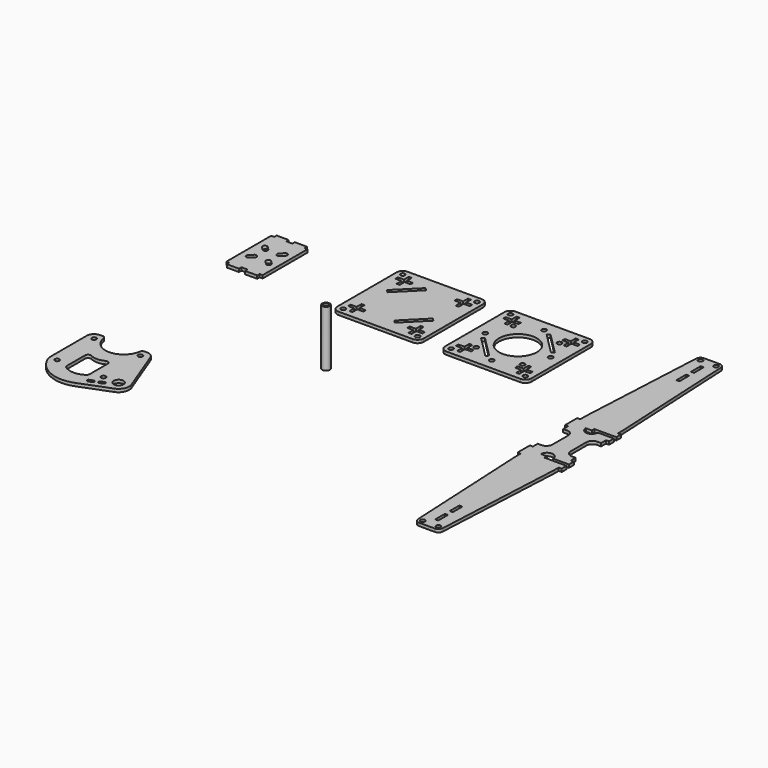
from build123d import *

# Parameters (mm, degrees)
F1_DEPTH = 2
F2_R     = 1.5
F3_DEPTH = 2
F2_R_2   = 12.5
F4_R     = 1.5
F4_W     = 2
F4_H     = 8
F5_DEPTH = 2
F6_R     = 1.5
F6_R_2   = 3.25
F7_DEPTH = 2
F8_R     = 2.5
F8_R_2   = 1.5
F9_DEPTH = 37


with BuildPart() as f1:
    # F0 (on Top) → F1 (new body)
    with BuildSketch(Plane.XY):
        Polygon((-186.8436282873, 149.2313740253), (-188.8436282873, 149.2313740253), (-188.8436282873, 112.2313740253), (-186.8436282873, 112.2313740253), (-186.8436282873, 110.2313740253), (-178.8436282873, 110.2313740253), (-178.8436282873, 112.2313740253), (-174.8436282873, 112.2313740253), (-174.8436282873, 110.2313740253), (-166.8436282873, 110.2313740253), (-166.8436282873, 112.2313740253), (-164.8436282873, 112.2313740253), (-164.8436282873, 149.2313740253), (-166.8436282873, 149.2313740253), (-166.8436282873, 151.2313740253), (-174.8436282873, 151.2313740253), (-174.8436282873, 149.2313740253), (-178.8436282873, 149.2313740253), (-178.8436282873, 151.2313740253), (-186.8436282873, 151.2313740253), align=None)
        with BuildLine():
            Line((-184.6218028801, 125.0745197762), (-182.5005182332, 127.1958044218))
            ThreePointArc((-182.5005182332, 127.1958044218), (-180.3791621716, 127.1958400978), (-180.3791979341, 125.0744840362))
            Line((-180.3791979341, 125.0744840362), (-182.4882756156, 122.9655484857))
            Line((-182.4882756156, 122.9655484857), (-182.5129038957, 122.9409218653))
            ThreePointArc((-182.5129038957, 122.9409218653), (-184.6279597425, 122.9593922427), (-184.6218028801, 125.0745197762))
        make_face(mode=Mode.SUBTRACT)
        with BuildLine():
            ThreePointArc((-171.1743526789, 122.9409218653), (-171.186738297, 122.9531636927), (-171.198980959, 122.9655484857))
            Line((-171.198980959, 122.9655484857), (-173.3080586406, 125.0744840362))
            ThreePointArc((-173.3080586406, 125.0744840362), (-173.308094403, 127.1958400978), (-171.1867383414, 127.1958044218))
            Line((-171.1867383414, 127.1958044218), (-169.0654536946, 125.0745197762))
            ThreePointArc((-169.0654536946, 125.0745197762), (-169.0592968322, 122.9593922427), (-171.1743526789, 122.9409218653))
        make_face(mode=Mode.SUBTRACT)
        with BuildLine():
            ThreePointArc((-180.3791979341, 136.3882640145), (-180.3791621716, 134.2669079529), (-182.5005182332, 134.2669436289))
            Line((-182.5005182332, 134.2669436289), (-184.6218028801, 136.3882282745))
            ThreePointArc((-184.6218028801, 136.3882282745), (-184.6279597425, 138.503355808), (-182.5129038957, 138.5218261853))
            ThreePointArc((-182.5129038957, 138.5218261853), (-182.5005182776, 138.509584358), (-182.4882756156, 138.497199565))
            Line((-182.4882756156, 138.497199565), (-180.3791979341, 136.3882640145))
        make_face(mode=Mode.SUBTRACT)
        with BuildLine():
            Line((-169.0654536946, 136.3882282745), (-171.1867383414, 134.2669436289))
            ThreePointArc((-171.1867383414, 134.2669436289), (-173.308094403, 134.2669079529), (-173.3080586406, 136.3882640145))
            Line((-173.3080586406, 136.3882640145), (-171.198980959, 138.497199565))
            Line((-171.198980959, 138.497199565), (-171.1743526789, 138.5218261854))
            ThreePointArc((-171.1743526789, 138.5218261854), (-169.0592968322, 138.503355808), (-169.0654536946, 136.3882282745))
        make_face(mode=Mode.SUBTRACT)
    extrude(amount=F1_DEPTH)


with BuildPart() as f3:
    # F2 (on Top) → F3 (new body)
    with BuildSketch(Plane.XY):
        with BuildLine():
            Line((-59.8981404901, 161.8164421916), (-108.8981404901, 161.8164421916))
            ThreePointArc((-108.8981404901, 161.8164421916), (-111.7265676148, 160.6448693163), (-112.8981404901, 157.8164421916))
            Line((-112.8981404901, 157.8164421916), (-112.8981404901, 108.8164421916))
            ThreePointArc((-112.8981404901, 108.8164421916), (-111.7265676148, 105.9880150669), (-108.8981404901, 104.8164421916))
            Line((-108.8981404901, 104.8164421916), (-59.8981404901, 104.8164421916))
            ThreePointArc((-59.8981404901, 104.8164421916), (-57.0697133653, 105.9880150669), (-55.8981404901, 108.8164421916))
            Line((-55.8981404901, 108.8164421916), (-55.8981404901, 157.8164421916))
            ThreePointArc((-55.8981404901, 157.8164421916), (-57.0697133653, 160.6448693163), (-59.8981404901, 161.8164421916))
        make_face()
        with Locations((-108.8981404901, 108.8164421916)):
            Circle(F2_R, mode=Mode.SUBTRACT)
        Polygon((-102.8981404901, 112.8164421916), (-102.8981404901, 108.8164421916), (-104.8981404901, 108.8164421916), (-104.8981404901, 112.8164421916), (-108.8981404901, 112.8164421916), (-108.8981404901, 114.8164421916), (-104.8981404901, 114.8164421916), (-104.8981404901, 118.8164421916), (-102.8981404901, 118.8164421916), (-102.8981404901, 114.8164421916), (-98.8981404901, 114.8164421916), (-98.8981404901, 112.8164421916), align=None, mode=Mode.SUBTRACT)
        with Locations((-59.8981404901, 108.8164421916)):
            Circle(F2_R, mode=Mode.SUBTRACT)
        Polygon((-59.8981404901, 114.8164421916), (-59.8981404901, 112.8164421916), (-63.8981404901, 112.8164421916), (-63.8981404901, 108.8164421916), (-65.8981404901, 108.8164421916), (-65.8981404901, 112.8164421916), (-69.8981404901, 112.8164421916), (-69.8981404901, 114.8164421916), (-65.8981404901, 114.8164421916), (-65.8981404901, 118.8164421916), (-63.8981404901, 118.8164421916), (-63.8981404901, 114.8164421916), align=None, mode=Mode.SUBTRACT)
        Polygon((-80.2725091608, 115.0486752386), (-66.1303735371, 129.1908108624), (-64.3626065841, 127.4230439094), (-78.5047422079, 113.2809082857), align=None, mode=Mode.SUBTRACT)
        Polygon((-88.5237718193, 151.5842091446), (-102.665907443, 137.4420735208), (-104.433674396, 139.2098404738), (-90.2915387723, 153.3519760975), align=None, mode=Mode.SUBTRACT)
        Polygon((-104.8981404901, 153.8164421916), (-104.8981404901, 157.8164421916), (-102.8981404901, 157.8164421916), (-102.8981404901, 153.8164421916), (-98.8981404901, 153.8164421916), (-98.8981404901, 151.8164421916), (-102.8981404901, 151.8164421916), (-102.8981404901, 147.8164421916), (-104.8981404901, 147.8164421916), (-104.8981404901, 151.8164421916), (-108.8981404901, 151.8164421916), (-108.8981404901, 153.8164421916), align=None, mode=Mode.SUBTRACT)
        with Locations((-108.8981404901, 157.8164421916)):
            Circle(F2_R, mode=Mode.SUBTRACT)
        Polygon((-63.8981404901, 153.8164421916), (-59.8981404901, 153.8164421916), (-59.8981404901, 151.8164421916), (-63.8981404901, 151.8164421916), (-63.8981404901, 147.8164421916), (-65.8981404901, 147.8164421916), (-65.8981404901, 151.8164421916), (-69.8981404901, 151.8164421916), (-69.8981404901, 153.8164421916), (-65.8981404901, 153.8164421916), (-65.8981404901, 157.8164421916), (-63.8981404901, 157.8164421916), align=None, mode=Mode.SUBTRACT)
        with Locations((-59.8981404901, 157.8164421916)):
            Circle(F2_R, mode=Mode.SUBTRACT)
    extrude(amount=F3_DEPTH)


with BuildPart() as f3b:
    # F2 (on Top) → F3, piece 2 (new body)
    with BuildSketch(Plane.XY):
        with BuildLine():
            ThreePointArc((-41.7896180153, 108.8164421916), (-40.61804514, 105.9880150669), (-37.7896180153, 104.8164421916))
            Line((-37.7896180153, 104.8164421916), (11.2103819847, 104.8164421916))
            ThreePointArc((11.2103819847, 104.8164421916), (14.0388091095, 105.9880150669), (15.2103819847, 108.8164421916))
            Line((15.2103819847, 108.8164421916), (15.2103819847, 157.8164421916))
            ThreePointArc((15.2103819847, 157.8164421916), (14.0388091095, 160.6448693163), (11.2103819847, 161.8164421916))
            Line((11.2103819847, 161.8164421916), (-37.7896180153, 161.8164421916))
            ThreePointArc((-37.7896180153, 161.8164421916), (-40.61804514, 160.6448693163), (-41.7896180153, 157.8164421916))
            Line((-41.7896180153, 157.8164421916), (-41.7896180153, 108.8164421916))
        make_face()
        with Locations((-37.7896180153, 108.8164421916)):
            Circle(F2_R, mode=Mode.SUBTRACT)
        Polygon((-31.7896180153, 112.8164421916), (-31.7896180153, 108.8164421916), (-33.7896180153, 108.8164421916), (-33.7896180153, 112.8164421916), (-37.7896180153, 112.8164421916), (-37.7896180153, 114.8164421916), (-33.7896180153, 114.8164421916), (-33.7896180153, 118.8164421916), (-31.7896180153, 118.8164421916), (-31.7896180153, 114.8164421916), (-27.7896180153, 114.8164421916), (-27.7896180153, 112.8164421916), align=None, mode=Mode.SUBTRACT)
        with Locations((-28.5396180153, 118.0664421916)):
            Circle(F2_R, mode=Mode.SUBTRACT)
        with Locations((-13.2896180153, 111.7496853654)):
            Circle(F2_R, mode=Mode.SUBTRACT)
        with Locations((11.2103819847, 108.8164421916)):
            Circle(F2_R, mode=Mode.SUBTRACT)
        Polygon((11.2103819847, 114.8164421916), (11.2103819847, 112.8164421916), (7.2103819847, 112.8164421916), (7.2103819847, 108.8164421916), (5.2103819847, 108.8164421916), (5.2103819847, 112.8164421916), (1.2103819847, 112.8164421916), (1.2103819847, 114.8164421916), (5.2103819847, 114.8164421916), (5.2103819847, 118.8164421916), (7.2103819847, 118.8164421916), (7.2103819847, 114.8164421916), align=None, mode=Mode.SUBTRACT)
        with Locations((1.9603819847, 118.0664421916)):
            Circle(F2_R, mode=Mode.SUBTRACT)
        Polygon((-31.6743943261, 129.0738015045), (-17.5322587024, 114.9316658808), (-18.9464722648, 113.5174523184), (-33.0886078885, 127.6595879421), align=None, mode=Mode.SUBTRACT)
        with Locations((-34.8563748415, 133.3164421916)):
            Circle(F2_R, mode=Mode.SUBTRACT)
        with Locations((-13.2896180153, 133.3164421916)):
            Circle(F2_R_2, mode=Mode.SUBTRACT)
        with Locations((8.2771388109, 133.3164421916)):
            Circle(F2_R, mode=Mode.SUBTRACT)
        Polygon((5.0951582956, 137.5590828787), (-9.0469773282, 151.7012185025), (-7.6327637658, 153.1154320648), (6.5093718579, 138.9732964411), align=None, mode=Mode.SUBTRACT)
        with Locations((-28.5396180153, 148.5664421916)):
            Circle(F2_R, mode=Mode.SUBTRACT)
        Polygon((-37.7896180153, 151.8164421916), (-37.7896180153, 153.8164421916), (-33.7896180153, 153.8164421916), (-33.7896180153, 157.8164421916), (-31.7896180153, 157.8164421916), (-31.7896180153, 153.8164421916), (-27.7896180153, 153.8164421916), (-27.7896180153, 151.8164421916), (-31.7896180153, 151.8164421916), (-31.7896180153, 147.8164421916), (-33.7896180153, 147.8164421916), (-33.7896180153, 151.8164421916), align=None, mode=Mode.SUBTRACT)
        with Locations((-37.7896180153, 157.8164421916)):
            Circle(F2_R, mode=Mode.SUBTRACT)
        with Locations((1.9603819847, 148.5664421916)):
            Circle(F2_R, mode=Mode.SUBTRACT)
        Polygon((5.2103819847, 153.8164421916), (5.2103819847, 157.8164421916), (7.2103819847, 157.8164421916), (7.2103819847, 153.8164421916), (11.2103819847, 153.8164421916), (11.2103819847, 151.8164421916), (7.2103819847, 151.8164421916), (7.2103819847, 147.8164421916), (5.2103819847, 147.8164421916), (5.2103819847, 151.8164421916), (1.2103819847, 151.8164421916), (1.2103819847, 153.8164421916), align=None, mode=Mode.SUBTRACT)
        with Locations((-13.2896180153, 154.8831990178)):
            Circle(F2_R, mode=Mode.SUBTRACT)
        with Locations((11.2103819847, 157.8164421916)):
            Circle(F2_R, mode=Mode.SUBTRACT)
    extrude(amount=F3_DEPTH)


with BuildPart() as f5:
    # F4 (on Top) → F5 (new body)
    with BuildSketch(Plane.XY):
        with BuildLine():
            Line((80.9935309207, 181.8789026141), (70.6978247249, 181.8789026141))
            ThreePointArc((70.6978247249, 181.8789026141), (68.630758642, 181.0531238101), (67.701652131, 179.0303944868))
            Line((67.701652131, 179.0303944868), (63.3456778228, 92.8789026141))
            Line((63.3456778228, 92.8789026141), (63.3456778228, 88.8789026141))
            Line((63.3456778228, 88.8789026141), (61.3456778228, 88.8789026141))
            Line((61.3456778228, 88.8789026141), (61.3456778228, 78.8789026141))
            Line((61.3456778228, 78.8789026141), (63.3456778228, 78.8789026141))
            Line((63.3456778228, 78.8789026141), (63.3456778228, 74.8789026141))
            Line((63.3456778228, 74.8789026141), (65.8456778228, 74.8789026141))
            ThreePointArc((65.8456778228, 74.8789026141), (68.6741049476, 73.7073297389), (69.8456778228, 70.8789026141))
            Line((69.8456778228, 70.8789026141), (69.8456778228, 57.8789026141))
            ThreePointArc((69.8456778228, 57.8789026141), (68.6741049476, 55.0504754894), (65.8456778228, 53.8789026141))
            Line((65.8456778228, 53.8789026141), (63.3456778228, 53.8789026141))
            Line((63.3456778228, 53.8789026141), (63.3456778228, 49.8789026141))
            Line((63.3456778228, 49.8789026141), (61.3456778228, 49.8789026141))
            Line((61.3456778228, 49.8789026141), (61.3456778228, 39.8789026141))
            Line((61.3456778228, 39.8789026141), (63.3456778228, 39.8789026141))
            Line((63.3456778228, 39.8789026141), (63.3456778228, 35.8789026141))
            Line((63.3456778228, 35.8789026141), (67.701652131, -50.2725892586))
            ThreePointArc((67.701652131, -50.2725892586), (68.630758642, -52.2953185819), (70.6978247249, -53.1210973859))
            Line((70.6978247249, -53.1210973859), (80.9935309207, -53.1210973859))
            ThreePointArc((80.9935309207, -53.1210973859), (83.0605970036, -52.2953185819), (83.9897035147, -50.2725892586))
            Line((83.9897035147, -50.2725892586), (88.3456778228, 35.8789026141))
            Line((88.3456778228, 35.8789026141), (88.3456778228, 39.8789026141))
            Line((88.3456778228, 39.8789026141), (90.3456778228, 39.8789026141))
            Line((90.3456778228, 39.8789026141), (90.3456778228, 43.8789026141))
            Line((90.3456778228, 43.8789026141), (75.8456778228, 43.8789026141))
            Line((75.8456778228, 43.8789026141), (75.8456778228, 45.8789026141))
            Line((75.8456778228, 45.8789026141), (71.8456778228, 45.8789026141))
            ThreePointArc((71.8456778228, 45.8789026141), (75.8456778228, 49.8789026141), (79.8456778228, 45.8789026141))
            Line((79.8456778228, 45.8789026141), (90.3456778228, 45.8789026141))
            Line((90.3456778228, 45.8789026141), (90.3456778228, 49.8789026141))
            Line((90.3456778228, 49.8789026141), (88.3456778228, 49.8789026141))
            Line((88.3456778228, 49.8789026141), (88.3456778228, 53.8789026141))
            Line((88.3456778228, 53.8789026141), (85.8456778228, 53.8789026141))
            ThreePointArc((85.8456778228, 53.8789026141), (83.0172506981, 55.0504754894), (81.8456778228, 57.8789026141))
            Line((81.8456778228, 57.8789026141), (81.8456778228, 70.8789026141))
            ThreePointArc((81.8456778228, 70.8789026141), (83.0172506981, 73.7073297389), (85.8456778228, 74.8789026141))
            Line((85.8456778228, 74.8789026141), (88.3456778228, 74.8789026141))
            Line((88.3456778228, 74.8789026141), (88.3456778228, 78.8789026141))
            Line((88.3456778228, 78.8789026141), (90.3456778228, 78.8789026141))
            Line((90.3456778228, 78.8789026141), (90.3456778228, 82.8789026141))
            Line((90.3456778228, 82.8789026141), (79.8456778228, 82.8789026141))
            ThreePointArc((79.8456778228, 82.8789026141), (75.8456778228, 78.8789026141), (71.8456778228, 82.8789026141))
            Line((71.8456778228, 82.8789026141), (75.8456778228, 82.8789026141))
            Line((75.8456778228, 82.8789026141), (75.8456778228, 84.8789026141))
            Line((75.8456778228, 84.8789026141), (90.3456778228, 84.8789026141))
            Line((90.3456778228, 84.8789026141), (90.3456778228, 88.8789026141))
            Line((90.3456778228, 88.8789026141), (88.3456778228, 88.8789026141))
            Line((88.3456778228, 88.8789026141), (88.3456778228, 92.8789026141))
            Line((88.3456778228, 92.8789026141), (83.9897035147, 179.0303944868))
            ThreePointArc((83.9897035147, 179.0303944868), (83.0605970036, 181.0531238101), (80.9935309207, 181.8789026141))
        make_face()
        with Locations((70.6978247249, -50.1210973859)):
            Circle(F4_R, mode=Mode.SUBTRACT)
        with Locations((75.8456778228, -41.1210973859)):
            Rectangle(F4_W, F4_H, mode=Mode.SUBTRACT)
        with Locations((75.8456778228, -29.1210973859)):
            Rectangle(F4_W, F4_H, mode=Mode.SUBTRACT)
        with Locations((80.9935309207, -50.1210973859)):
            Circle(F4_R, mode=Mode.SUBTRACT)
        with Locations((70.6978247249, 178.8789026141)):
            Circle(F4_R, mode=Mode.SUBTRACT)
        with Locations((75.8456778228, 169.8789026141)):
            Rectangle(F4_W, F4_H, mode=Mode.SUBTRACT)
        with Locations((75.8456778228, 157.8789026141)):
            Rectangle(F4_W, F4_H, mode=Mode.SUBTRACT)
        with Locations((80.9935309207, 178.8789026141)):
            Circle(F4_R, mode=Mode.SUBTRACT)
    extrude(amount=F5_DEPTH)


with BuildPart() as f7:
    # F6 (on Top) → F7 (new body)
    with BuildSketch(Plane.XY):
        with BuildLine():
            Line((-186.7417392834, 7.7071315944), (-188.3853328228, 7.7071315944))
            ThreePointArc((-188.3853328228, 7.7071315944), (-191.9208667287, 6.2426655004), (-193.3853328228, 2.7071315944))
            Line((-193.3853328228, 2.7071315944), (-193.3853328228, -26.552156049))
            ThreePointArc((-193.3853328228, -26.552156049), (-193.1770236597, -28.5826216494), (-192.5607747119, -30.5284943319))
            ThreePointArc((-192.5607747119, -30.5284943319), (-181.153522996, -41.787261859), (-165.1272007538, -41.9927693466))
            Line((-165.1272007538, -41.9927693466), (-145.3527847226, -34.3186787093))
            ThreePointArc((-145.3527847226, -34.3186787093), (-141.488024451, -30.6344253022), (-141.3454656125, -25.2968441925))
            Line((-141.3454656125, -25.2968441925), (-152.7139991012, 4.4900060323))
            ThreePointArc((-152.7139991012, 4.4900060323), (-154.5493472965, 6.8250419983), (-157.3853328228, 7.7071315944))
            Line((-157.3853328228, 7.7071315944), (-159.0289263622, 7.7071315944))
            ThreePointArc((-159.0289263622, 7.7071315944), (-160.3382337037, 7.2189894865), (-161.0084129995, 5.9928458801))
            ThreePointArc((-161.0084129995, 5.9928458801), (-172.8853328228, -4.2928684056), (-184.7622526461, 5.9928458801))
            ThreePointArc((-184.7622526461, 5.9928458801), (-185.4324319419, 7.2189894865), (-186.7417392834, 7.7071315944))
        make_face()
        with Locations((-188.3853328228, -27.7928684056)):
            Circle(F6_R, mode=Mode.SUBTRACT)
        with BuildLine():
            Line((-180.3853328228, -29.8013489424), (-180.3853328228, -14.8619105957))
            ThreePointArc((-180.3853328228, -14.8619105957), (-179.4229999546, -13.1521600515), (-177.4620858991, -13.0877586524))
            ThreePointArc((-177.4620858991, -13.0877586524), (-172.8853328228, -14.2073408159), (-168.3085797465, -13.0877586524))
            ThreePointArc((-168.3085797465, -13.0877586524), (-166.347665691, -13.1521600515), (-165.3853328228, -14.8619105957))
            Line((-165.3853328228, -14.8619105957), (-165.3853328228, -29.8013489424))
            ThreePointArc((-165.3853328228, -29.8013489424), (-165.6097800143, -30.7218988998), (-166.2327450469, -31.4358340046))
            ThreePointArc((-166.2327450469, -31.4358340046), (-172.8853328228, -33.5455390158), (-179.5379205987, -31.4358340046))
            ThreePointArc((-179.5379205987, -31.4358340046), (-180.1608856313, -30.7218988998), (-180.3853328228, -29.8013489424))
        make_face(mode=Mode.SUBTRACT)
        with BuildLine():
            ThreePointArc((-160.9621120791, -36.6213601944), (-161.5742504658, -36.6075792059), (-161.9973530396, -36.1649873712))
            Line((-161.9973530396, -36.1649873712), (-162.1420700739, -35.7920839253))
            ThreePointArc((-162.1420700739, -35.7920839253), (-162.1282890853, -35.1799455386), (-161.6856972506, -34.7568429648))
            Line((-161.6856972506, -34.7568429648), (-159.448276575, -33.888540759))
            ThreePointArc((-159.448276575, -33.888540759), (-158.8361381884, -33.9023217476), (-158.4130356146, -34.3449135823))
            Line((-158.4130356146, -34.3449135823), (-158.2683185803, -34.7178170282))
            ThreePointArc((-158.2683185803, -34.7178170282), (-158.2820995689, -35.3299554149), (-158.7246914036, -35.7530579887))
            Line((-158.7246914036, -35.7530579887), (-160.9621120791, -36.6213601944))
        make_face(mode=Mode.SUBTRACT)
        with BuildLine():
            ThreePointArc((-152.6747668914, -32.5470615137), (-152.68854788, -33.1591999004), (-153.1311397147, -33.5823024742))
            Line((-153.1311397147, -33.5823024742), (-155.3685603902, -34.45060468))
            ThreePointArc((-155.3685603902, -34.45060468), (-155.9806987769, -34.4368236914), (-156.4038013507, -33.9942318567))
            Line((-156.4038013507, -33.9942318567), (-156.548518385, -33.6213284108))
            ThreePointArc((-156.548518385, -33.6213284108), (-156.5347373964, -33.0091900241), (-156.0921455617, -32.5860874503))
            Line((-156.0921455617, -32.5860874503), (-153.8547248861, -31.7177852445))
            ThreePointArc((-153.8547248861, -31.7177852445), (-153.2425864995, -31.7315662331), (-152.8194839257, -32.1741580678))
            Line((-152.8194839257, -32.1741580678), (-152.6747668914, -32.5470615137))
        make_face(mode=Mode.SUBTRACT)
        with Locations((-157.8853328228, -27.7928684056)):
            Circle(F6_R, mode=Mode.SUBTRACT)
        with Locations((-147.8853328228, -27.7928684056)):
            Circle(F6_R_2, mode=Mode.SUBTRACT)
        with Locations((-188.3853328228, 2.7071315944)):
            Circle(F6_R, mode=Mode.SUBTRACT)
        with Locations((-157.8853328228, 2.7071315944)):
            Circle(F6_R, mode=Mode.SUBTRACT)
    extrude(amount=F7_DEPTH)


with BuildPart() as f9:
    # F8 (on Top) → F9 (new body)
    with BuildSketch(Plane.XY):
        with Locations((-76.695010066, 54.2805120349)):
            Circle(F8_R)
        with Locations((-76.695010066, 54.2805120349)):
            Circle(F8_R_2, mode=Mode.SUBTRACT)
    extrude(amount=F9_DEPTH)


solid = Compound([f1.part, f3.part, f3b.part, f5.part, f7.part, f9.part])
